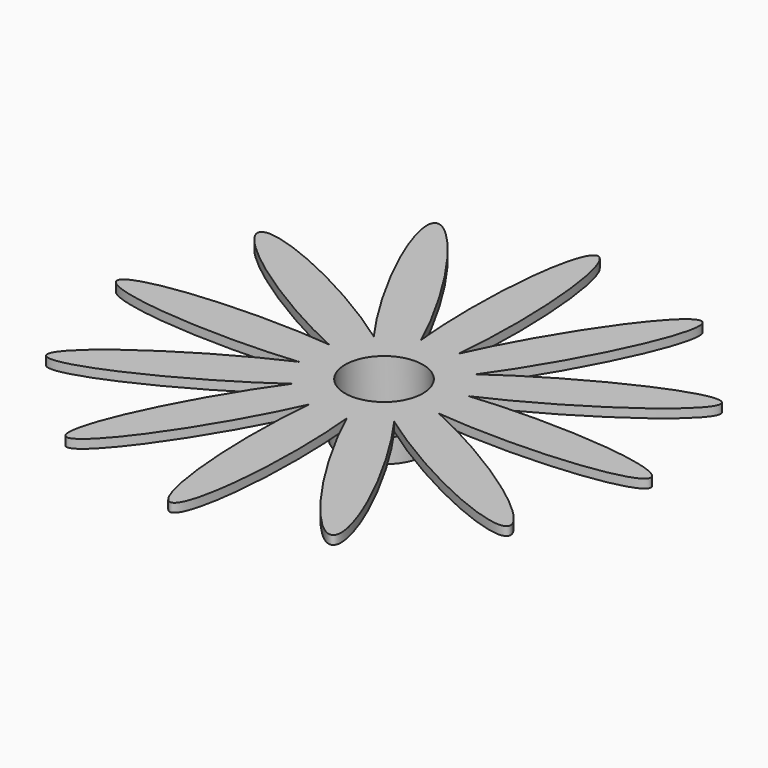
from build123d import *

# Parameters (mm, degrees)
F1_DEPTH = 1
F3_COUNT = 12
F4_R     = 4.95
F4_R_2   = 4.45
F5_DEPTH = 5
F4_R_3   = 5.5
F6_DEPTH = 2
F7_DEPTH = 2


with BuildPart() as f1:
    # F0 (on Top) → F1 (new body)
    with BuildSketch(Plane.XY):
        with BuildLine():
            ThreePointArc((-1.85543281, 5.7059065088), (-3.5261454267, -4.8545132022), (6, 0))
            ThreePointArc((6, 0), (4.8545132022, 3.5261454267), (1.85543281, 5.7059065088))
            add(Edge.make_bspline(
                [(0, 0.8097463206), (1.110899103, 0.8097463206), (1.85543281, 5.7059065088)],
                knots=[0, 0, 0, 0.8363070245, 0.8363070245, 0.8363070245], degree=2, weights=[1, 0.913840308, 1]))
            add(Edge.make_bspline(
                [(-1.85543281, 5.7059065088), (-1.110899103, 0.8097463206), (0, 0.8097463206)],
                knots=[5.4468782827, 5.4468782827, 5.4468782827, 6.2831853072, 6.2831853072, 6.2831853072], degree=2, weights=[1, 0.913840308, 1]))
        make_face()
        with BuildLine():
            ThreePointArc((-1.85543281, 5.7059065088), (0, 6), (1.85543281, 5.7059065088))
            add(Edge.make_bspline(
                [(1.85543281, 5.7059065088), (5.626073496, 30.50217918), (0, 30.50217918), (-5.626073496, 30.50217918), (-1.85543281, 5.7059065088)],
                knots=[0.8363070245, 0.8363070245, 0.8363070245, 3.1415926536, 3.1415926536, 5.4468782827, 5.4468782827, 5.4468782827], degree=2, weights=[1, 0.4060737514, 1, 0.4060737514, 1]))
        make_face()
        with BuildLine():
            add(Edge.make_bspline(
                [(0, 0.8097463206), (1.110899103, 0.8097463206), (1.85543281, 5.7059065088)],
                knots=[0, 0, 0, 0.8363070245, 0.8363070245, 0.8363070245], degree=2, weights=[1, 0.913840308, 1]))
            ThreePointArc((1.85543281, 5.7059065088), (0, 6), (-1.85543281, 5.7059065088))
            add(Edge.make_bspline(
                [(-1.85543281, 5.7059065088), (-1.110899103, 0.8097463206), (0, 0.8097463206)],
                knots=[5.4468782827, 5.4468782827, 5.4468782827, 6.2831853072, 6.2831853072, 6.2831853072], degree=2, weights=[1, 0.913840308, 1]))
        make_face()
    extrude(amount=F1_DEPTH)


with BuildPart() as f3_1:
    # F3: instance of F1
    add(f1.part.rotate(Axis((0, 0, 8.796742186), (0, 0, -1)), 1 * 360 / F3_COUNT))


with BuildPart() as f3_2:
    # F3: instance of F1
    add(f1.part.rotate(Axis((0, 0, 8.796742186), (0, 0, -1)), 2 * 360 / F3_COUNT))


with BuildPart() as f3_3:
    # F3: instance of F1
    add(f1.part.rotate(Axis((0, 0, 8.796742186), (0, 0, -1)), 3 * 360 / F3_COUNT))


with BuildPart() as f3_4:
    # F3: instance of F1
    add(f1.part.rotate(Axis((0, 0, 8.796742186), (0, 0, -1)), 4 * 360 / F3_COUNT))


with BuildPart() as f3_5:
    # F3: instance of F1
    add(f1.part.rotate(Axis((0, 0, 8.796742186), (0, 0, -1)), 5 * 360 / F3_COUNT))


with BuildPart() as f3_6:
    # F3: instance of F1
    add(f1.part.rotate(Axis((0, 0, 8.796742186), (0, 0, -1)), 6 * 360 / F3_COUNT))


with BuildPart() as f3_7:
    # F3: instance of F1
    add(f1.part.rotate(Axis((0, 0, 8.796742186), (0, 0, -1)), 7 * 360 / F3_COUNT))


with BuildPart() as f3_8:
    # F3: instance of F1
    add(f1.part.rotate(Axis((0, 0, 8.796742186), (0, 0, -1)), 8 * 360 / F3_COUNT))


with BuildPart() as f3_9:
    # F3: instance of F1
    add(f1.part.rotate(Axis((0, 0, 8.796742186), (0, 0, -1)), 9 * 360 / F3_COUNT))


with BuildPart() as f3_10:
    # F3: instance of F1
    add(f1.part.rotate(Axis((0, 0, 8.796742186), (0, 0, -1)), 10 * 360 / F3_COUNT))


with BuildPart() as f3_11:
    # F3: instance of F1
    add(f1.part.rotate(Axis((0, 0, 8.796742186), (0, 0, -1)), 11 * 360 / F3_COUNT))


with BuildPart() as f1_1:
    add(f1.part)

    add(f3_1.part)  # F5 merges F3_1

    add(f3_2.part)  # F5 merges F3_2

    add(f3_3.part)  # F5 merges F3_3

    add(f3_4.part)  # F5 merges F3_4

    add(f3_5.part)  # F5 merges F3_5

    add(f3_6.part)  # F5 merges F3_6

    add(f3_7.part)  # F5 merges F3_7

    add(f3_8.part)  # F5 merges F3_8

    add(f3_9.part)  # F5 merges F3_9

    add(f3_10.part)  # F5 merges F3_10

    add(f3_11.part)  # F5 merges F3_11
    # F4 (on Top) → F5 (join)
    with BuildSketch(Plane.XY):
        Circle(F4_R)
        Circle(F4_R_2, mode=Mode.SUBTRACT)
    extrude(amount=-F5_DEPTH)

    # F4 (on Top) → F6 (join)
    with BuildSketch(Plane.XY):
        Circle(F4_R_3)
        Circle(F4_R, mode=Mode.SUBTRACT)
    extrude(amount=-F6_DEPTH)

    # F4 (on Top) → F7 (cut)
    with BuildSketch(Plane.XY):
        Circle(F4_R_2)
    extrude(amount=F7_DEPTH, mode=Mode.SUBTRACT)


solid = f1_1.part
